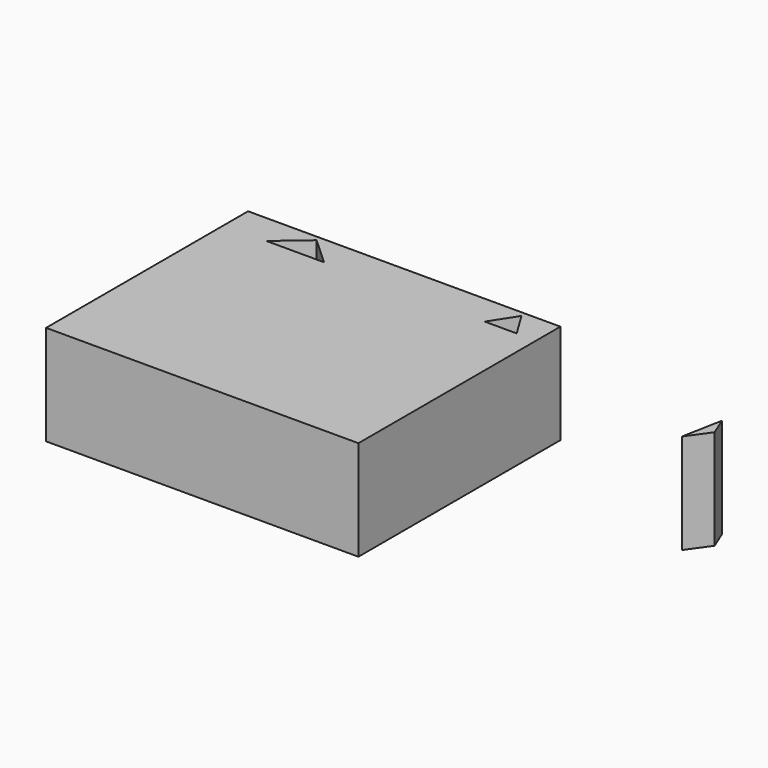
from build123d import *

# Parameters (mm, degrees)
F1_DEPTH = 25.4


with BuildPart() as f1:
    # F0 (on Top) → F1 (new body)
    with BuildSketch(Plane.XY):
        Polygon((-13.3808245882, 25.3869071603), (-28.0447416008, 25.3869071603), (-38.8593822718, 33.0854654312), (-38.8593822718, -29.9723377901), (-28.7779383361, -21.3543307036), (-11.3645363599, -21.3543307036), (3.8557415342, -21.3543307036), (19.0760194284, -21.3543307036), (35.5600006878, -21.3543307036), (35.5600006878, 25.3869071603), (27.4385251191, 25.3869071603), (13.8320752167, 25.3869071603), (0.2256253142, 25.3869071603), align=None)
        Polygon((-38.8593822718, 33.0854654312), (-28.0447416008, 25.3869071603), (-20.4733136729, 31.8592557597), (-21.5215249913, 33.0854654312), align=None)
        Polygon((-6.3553992055, 33.0854654312), (-13.3808245882, 25.3869071603), (0.2256253142, 25.3869071603), align=None)
        Polygon((-20.4733136729, 31.8592557597), (-13.3808245882, 25.3869071603), (-6.3553992055, 33.0854654312), (-21.5215249913, 33.0854654312), align=None)
        Polygon((7.2510506969, 33.0854654312), (0.2256253142, 25.3869071603), (13.8320752167, 25.3869071603), align=None)
        Polygon((-6.3553992055, 33.0854654312), (0.2256253142, 25.3869071603), (7.2510506969, 33.0854654312), align=None)
        Polygon((-28.7779383361, -21.3543307036), (-38.8593822718, -29.9723377901), (-38.8593822718, -31.0691762716), (-20.4733136729, -31.0691762716), align=None)
        Polygon((20.8575005994, 33.0854654312), (13.8320752167, 25.3869071603), (27.4385251191, 25.3869071603), align=None)
        Polygon((7.2510506969, 33.0854654312), (13.8320752167, 25.3869071603), (20.8575005994, 33.0854654312), align=None)
        Polygon((-11.3645363599, -21.3543307036), (-28.7779383361, -21.3543307036), (-20.4733136729, -31.0691762716), align=None)
        Polygon((20.8575005994, 33.0854654312), (27.4385251191, 25.3869071603), (31.5993184102, 31.8592557597), (31.5993184102, 33.0854654312), align=None)
        Polygon((-11.3645363599, -21.3543307036), (-20.4733136729, -31.0691762716), (-3.0599116967, -31.0691762716), align=None)
        Polygon((3.8557415342, -21.3543307036), (-11.3645363599, -21.3543307036), (-3.0599116967, -31.0691762716), align=None)
        Polygon((40.5090712011, 33.0854654312), (35.5600006878, 25.3869071603), (35.5600006878, -21.3543307036), (40.5090712011, -31.0691762716), align=None)
        Polygon((31.5993184102, 31.8592557597), (35.5600006878, 25.3869071603), (40.5090712011, 33.0854654312), (31.5993184102, 33.0854654312), align=None)
        Polygon((3.8557415342, -21.3543307036), (-3.0599116967, -31.0691762716), (12.1603661974, -31.0691762716), align=None)
        Polygon((19.0760194284, -21.3543307036), (3.8557415342, -21.3543307036), (12.1603661974, -31.0691762716), align=None)
        Polygon((25.8451569825, -31.0691762716), (35.5600006878, -21.3543307036), (19.0760194284, -21.3543307036), align=None)
        Polygon((40.5090712011, -31.0691762716), (35.5600006878, -21.3543307036), (25.8451569825, -31.0691762716), align=None)
        Polygon((19.0760194284, -21.3543307036), (12.1603661974, -31.0691762716), (25.8451569825, -31.0691762716), align=None)
    extrude(amount=F1_DEPTH)


with BuildPart() as f1b:
    # F0 (on Top) → F1, piece 2 (new body)
    with BuildSketch(Plane.XY):
        Polygon((88.8332173564, 11.2707176203), (92.7492827177, 16.7718566954), (90.7912500371, 21.5380303562), align=None)
    extrude(amount=F1_DEPTH)


solid = Compound([f1.part, f1b.part])
